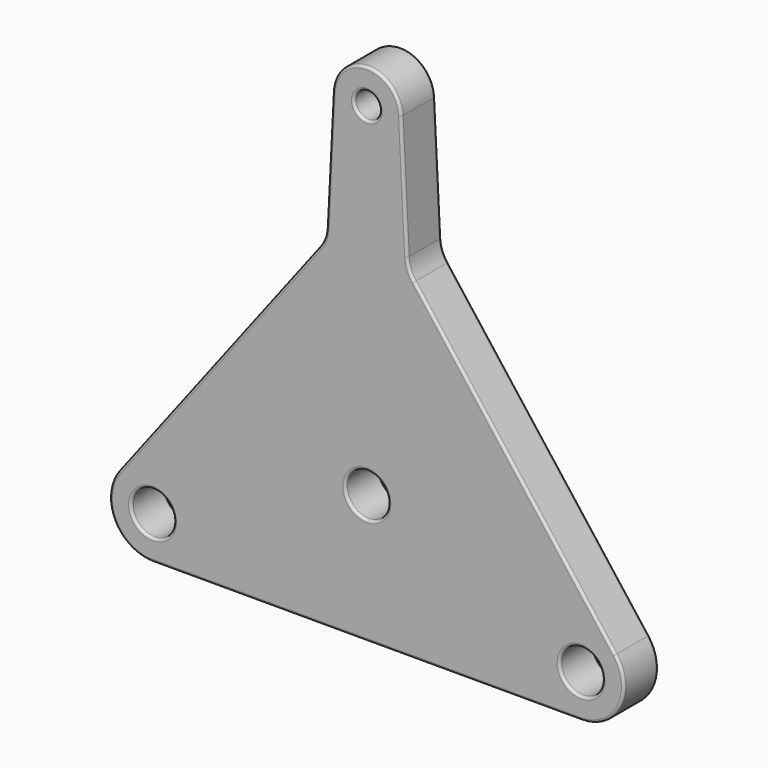
from build123d import *

# Parameters (mm, degrees)
F0_R     = 63.5
F0_R_2   = 38.1
F1_DEPTH = 63.5
F2_R     = 7.62


with BuildPart() as f1:
    # F0 (on Front) → F1 (new body, symmetric)
    with BuildSketch(Plane.XZ):
        with BuildLine():
            Line((119.609744, 31.536983), (101.472921, 393.819741))
            ThreePointArc((101.472921, 393.819741), (0, 490.339741), (-101.472921, 393.819741))
            Line((-101.472921, 393.819741), (-119.609744, 31.536983))
            ThreePointArc((-119.609744, 31.536983), (-125.689481, 1.649846), (-140.365452, -25.086272))
            Line((-140.365452, -25.086272), (-735.896515, -804.131191))
            ThreePointArc((-735.896515, -804.131191), (-748.85164, -937.534624), (-635, -1008.260259))
            Line((-635, -1008.260259), (635, -1008.260259))
            ThreePointArc((635, -1008.260259), (748.85164, -937.534624), (735.896515, -804.131191))
            Line((735.896515, -804.131191), (140.365452, -25.086272))
            ThreePointArc((140.365452, -25.086272), (125.689481, 1.649846), (119.609744, 31.536983))
        make_face()
        with Locations((-635, -881.260259)):
            Circle(F0_R, mode=Mode.SUBTRACT)
        with Locations((635, -881.260259)):
            Circle(F0_R, mode=Mode.SUBTRACT)
        with Locations((0, -627.260259)):
            Circle(F0_R, mode=Mode.SUBTRACT)
        with Locations((0, 388.739741)):
            Circle(F0_R_2, mode=Mode.SUBTRACT)
    extrude(amount=F1_DEPTH, both=True)

    # F2
    f2_edges = [f1.edges().sort_by_distance(p)[0] for p in [
        (0, -63.5, 490.339741),
        (110.541332, -63.5, 212.678362),
        (-110.541332, -63.5, 212.678362),
        (438.130984, 63.5, -414.608731),
        (125.689481, 63.5, 1.649846),
        (110.541332, 63.5, 212.678362),
        (0, -63.5, -1008.260259),
        (-698.5, -63.5, -881.260259),
        (-698.5, 63.5, -881.260259),
        (-63.5, 63.5, -627.260259),
        (-63.5, -63.5, -627.260259),
        (571.5, -63.5, -881.260259),
        (571.5, 63.5, -881.260259),
        (-38.1, -63.5, 388.739741),
        (-38.1, 63.5, 388.739741),
    ]]
    fillet(f2_edges, radius=F2_R)


solid = f1.part
